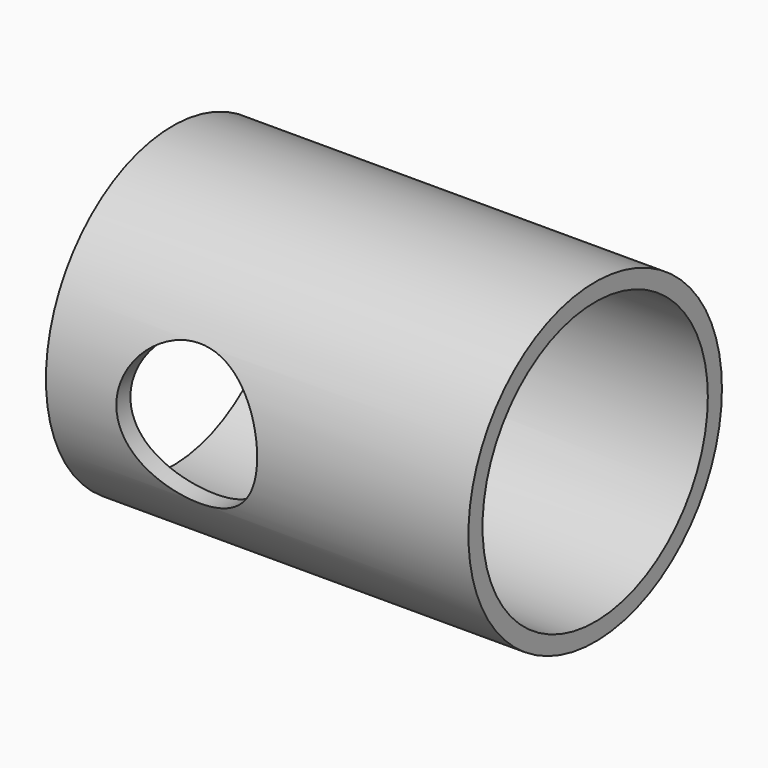
from build123d import *

# Parameters (mm, degrees)
F0_R     = 3.571875
F0_R_2   = 3.175
F1_DEPTH = 9.525
F2_R     = 1.5875
F3_DEPTH = 12.7


with BuildPart() as f1:
    # F0 (on Right) → F1 (new body)
    with BuildSketch(Plane.YZ):
        Circle(F0_R)
        Circle(F0_R_2, mode=Mode.SUBTRACT)
    extrude(amount=F1_DEPTH)

    # F2 (on Front) → F3 (cut, symmetric)
    with BuildSketch(Plane.XZ):
        with Locations((3.175, 0)):
            Circle(F2_R)
    extrude(amount=F3_DEPTH, both=True, mode=Mode.SUBTRACT)


solid = f1.part
